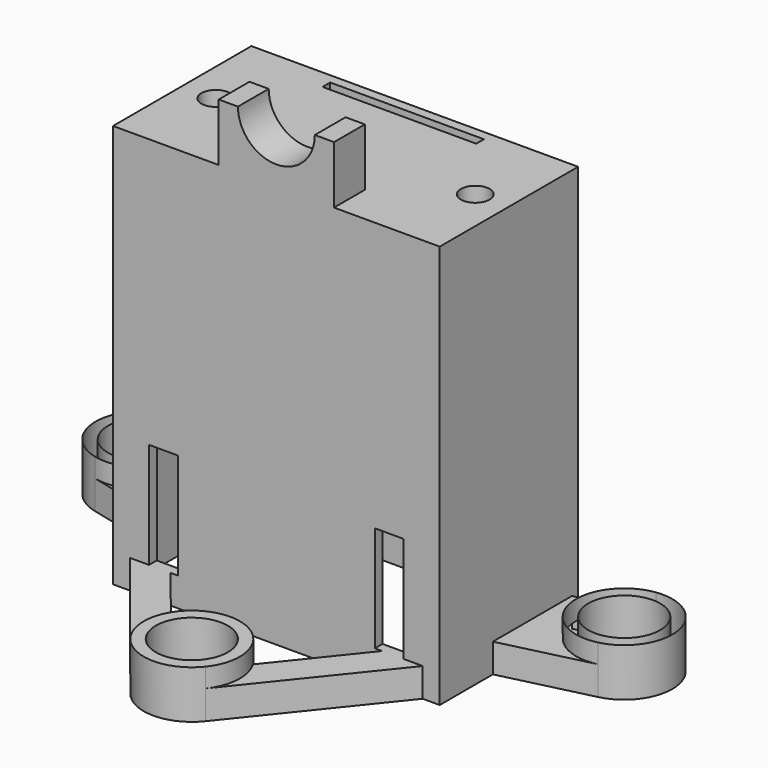
from build123d import *

# Parameters (mm, degrees)
PAD134_DEPTH        = 5
HOLE012_D           = 4.5
HOLE012_DEPTH       = 25
HOLE012_CBORE_D     = 7.5
HOLE012_CBORE_DEPTH = 4
SKETCH284_W         = 34
SKETCH284_H         = 18
SKETCH284_W_2       = 32
SKETCH284_H_2       = 16
PAD136_DEPTH        = 40
SKETCH288_W         = 32
SKETCH288_H         = 16
POCKET119_DEPTH     = 5
SKETCH289_W         = 34
SKETCH289_H         = 18
PAD137_DEPTH        = 2
SKETCH290_W         = 30
SKETCH290_H         = 3
POCKET120_DEPTH     = 1
SKETCH291_R         = 2
SKETCH291_W         = 16
SKETCH291_H         = 1
POCKET121_DEPTH     = 5
SKETCH292_W         = 12
SKETCH292_H         = 4
PAD138_DEPTH        = 6
SKETCH293_R         = 4
POCKET122_DEPTH     = 5
SKETCH294_R         = 2
PAD139_DEPTH        = 3
SKETCH287_W         = 3
SKETCH287_H         = 11
POCKET123_DEPTH     = 2.5
POCKET124_DEPTH     = 2
SKETCH296_R         = 1.5
POCKET125_DEPTH     = 10


with BuildPart() as part:
    # Sketch282 → Pad134 (new body)
    with BuildSketch(Plane.XY):
        with BuildLine():
            Line((-16, 7.96043), (16, 7.96043))
            Line((16, 7.96043), (23.820487, 9.858884))
            ThreePointArc((26.179513, 0.141116), (29.858884, 6.179513), (23.820487, 9.858884))
            Line((16, -2.33), (26.179513, 0.141116))
            Line((16, -2.33), (16, -8.03957))
            Line((16, -8.03957), (3.900743, -23.127972))
            ThreePointArc((-3.900743, -23.127972), (0, -25), (3.900743, -23.127972))
            Line((-16, -8.03957), (-3.900743, -23.127972))
            Line((-16, -8.03957), (-16, -2.33))
            Line((-16, -2.33), (-26.179513, 0.141116))
            ThreePointArc((-23.820487, 9.858884), (-29.858884, 6.179513), (-26.179513, 0.141116))
            Line((-16, 7.96043), (-23.820487, 9.858884))
        make_face()
        with BuildLine():
            ThreePointArc((4.26793, -17.39524), (0, -15), (-4.26793, -17.39524))
            Line((-11, -9), (-4.26793, -17.39524))
            Line((-11, -9), (11, -9))
            Line((11, -9), (4.26793, -17.39524))
        make_face(mode=Mode.SUBTRACT)
    extrude(amount=PAD134_DEPTH)

    # Hole012
    with Locations(Plane.XY.offset(5)):
        with Locations((0, -20), (25, 5), (-25, 5)):
            CounterBoreHole(HOLE012_D / 2, HOLE012_CBORE_D / 2, HOLE012_CBORE_DEPTH, depth=HOLE012_DEPTH)

    # Sketch284 → Pad136 (join)
    with BuildSketch(Plane(origin=(0, 0, 0), x_dir=(1, 0, 0), z_dir=(0, 0, -1))):
        Rectangle(SKETCH284_W, SKETCH284_H)
        Rectangle(SKETCH284_W_2, SKETCH284_H_2, mode=Mode.SUBTRACT)
    extrude(amount=-PAD136_DEPTH)

    # Sketch288 → Pocket119 (cut)
    with BuildSketch(Plane(origin=(0, 0, 0), x_dir=(1, 0, 0), z_dir=(0, 0, -1))):
        Rectangle(SKETCH288_W, SKETCH288_H)
    extrude(amount=-POCKET119_DEPTH, mode=Mode.SUBTRACT)

    # Sketch289 (on Face23 of Pocket119) → Pad137 (join)
    with BuildSketch(Plane.XY.offset(40)):
        Rectangle(SKETCH289_W, SKETCH289_H)
    extrude(amount=PAD137_DEPTH)

    # Sketch290 (on Face23 of Pad137) → Pocket120 (cut)
    with BuildSketch(Plane(origin=(0, 0, 40), x_dir=(1, 0, 0), z_dir=(0, 0, -1))):
        with Locations((0, -3.5)):
            Rectangle(SKETCH290_W, SKETCH290_H)
    extrude(amount=-POCKET120_DEPTH, mode=Mode.SUBTRACT)

    # Sketch291 (on Face51 of Pocket120) → Pocket121 (cut)
    with BuildSketch(Plane.XY.offset(42)):
        with Locations((0, -1)):
            Circle(SKETCH291_R)
        with Locations((0, 7.5)):
            Rectangle(SKETCH291_W, SKETCH291_H)
    extrude(amount=-POCKET121_DEPTH, mode=Mode.SUBTRACT)

    # Sketch292 (on Face56 of Pocket121) → Pad138 (join)
    with BuildSketch(Plane.XY.offset(42)):
        with Locations((0, -7)):
            Rectangle(SKETCH292_W, SKETCH292_H)
    extrude(amount=PAD138_DEPTH)

    # Sketch293 (on Face57 of Pad138) → Pocket122 (cut)
    with BuildSketch(Plane.XZ.offset(9)):
        with Locations((0, 48)):
            Circle(SKETCH293_R)
    extrude(amount=-POCKET122_DEPTH, mode=Mode.SUBTRACT)

    # Sketch294 (on Face56 of Pocket122) → Pad139 (join)
    with BuildSketch(Plane.XY.offset(42)):
        with Locations((-13.5, 0)):
            Circle(SKETCH294_R)
        with Locations((13.5, 0)):
            Circle(SKETCH294_R)
    extrude(amount=-PAD139_DEPTH)

    # Sketch287 → Pocket123 (cut, symmetric)
    with BuildSketch(Plane.XZ.offset(8)):
        with Locations((-11.75, 8.5)):
            Rectangle(SKETCH287_W, SKETCH287_H)
        with Locations((11.75, 8.5)):
            Rectangle(SKETCH287_W, SKETCH287_H)
    extrude(amount=POCKET123_DEPTH, both=True, mode=Mode.SUBTRACT)

    # Sketch295 (on Face32 of Pocket123) → Pocket124 (cut)
    with BuildSketch(Plane.XY.offset(5)):
        with BuildLine():
            ThreePointArc((-3.575014, -16.504392), (-4.997269, -19.834763), (-3.798121, -23.251812))
            Line((-16, -9), (-3.798121, -23.251812))
            Line((-16, -9), (-10, -9))
            Line((-10, -9), (-3.575014, -16.504392))
        make_face()
        with BuildLine():
            Line((10, -9), (16, -9))
            Line((16, -9), (3.798121, -23.251812))
            ThreePointArc((3.798121, -23.251812), (4.997269, -19.834763), (3.575014, -16.504392))
            Line((10, -9), (3.575014, -16.504392))
        make_face()
        with BuildLine():
            ThreePointArc((24.35405, 9.958099), (20.13007, 3.866958), (26.609029, 0.265971))
            Line((17, -3), (26.609029, 0.265971))
            Line((17, -3), (17, 9))
            Line((17, 9), (24.35405, 9.958099))
        make_face()
        with BuildLine():
            ThreePointArc((-26.609029, 0.265971), (-20.13007, 3.866958), (-24.35405, 9.958099))
            Line((-17, 9), (-24.35405, 9.958099))
            Line((-17, -3), (-17, 9))
            Line((-17, -3), (-26.609029, 0.265971))
        make_face()
    extrude(amount=-POCKET124_DEPTH, mode=Mode.SUBTRACT)

    # Sketch296 (on Face85 of Pocket124) → Pocket125 (cut)
    with BuildSketch(Plane.XY.offset(42)):
        with Locations((13.5, 0)):
            Circle(SKETCH296_R)
        with Locations((-13.5, 0)):
            Circle(SKETCH296_R)
    extrude(amount=-POCKET125_DEPTH, mode=Mode.SUBTRACT)


solid = part.part
